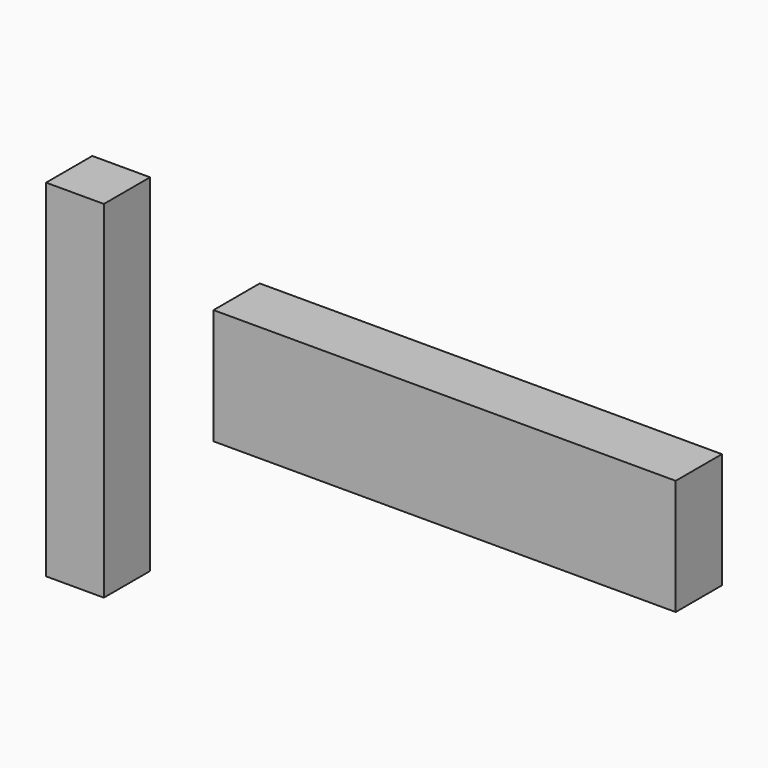
from build123d import *

# Parameters (mm, degrees)
F0_W     = 400
F0_H     = 50
F1_DEPTH = 25
F2_DEPTH = 100
F3_W     = 50
F3_H     = 50
F4_DEPTH = 300


with BuildPart() as f1:
    # F0 (on Top) → F1 (new body)
    with BuildSketch(Plane.XY):
        Rectangle(F0_W, F0_H)
    extrude(amount=F1_DEPTH)

    # F0 (on Top) → F2 (join)
    with BuildSketch(Plane.XY):
        Rectangle(F0_W, F0_H)
    extrude(amount=F2_DEPTH)


with BuildPart() as f4:
    # F3 (on Top) → F4 (new body)
    with BuildSketch(Plane.XY):
        with Locations((-319.909543, 0)):
            Rectangle(F3_W, F3_H)
    extrude(amount=F4_DEPTH)


with BuildPart() as f4_1:
    # F5: moved
    add(f4.part.moved(Location((0, 0, -150))))


solid = Compound([f1.part, f4_1.part])
